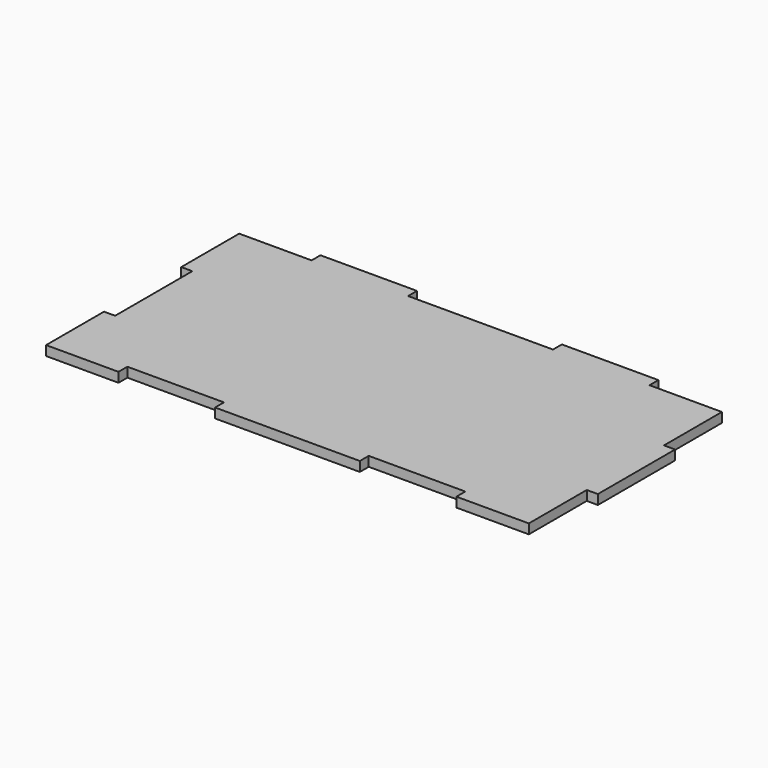
from build123d import *

# Parameters (mm, degrees)
F0_W     = 20
F0_H     = 2.3
F0_W_2   = 2.3
F0_H_2   = 20
F1_DEPTH = 2
F2_W     = 20
F2_H     = 2.3
F2_W_2   = 2.3
F2_H_2   = 20
F3_DEPTH = 5


with BuildPart() as f1:
    # F0 (on Top) → F1 (new body)
    with BuildSketch(Plane.XY):
        Polygon((-39.665294, 39.906408), (-54.665294, 39.906408), (-54.665294, -10.093592), (45.334706, -10.093592), (45.334706, 4.906408), (45.334706, 24.906408), (45.334706, 39.906408), (30.334706, 39.906408), (10.334706, 39.906408), (-19.665294, 39.906408), align=None)
        with Locations((-29.665294, 41.056408)):
            Rectangle(F0_W, F0_H)
        with Locations((20.334706, 41.056408)):
            Rectangle(F0_W, F0_H)
        with Locations((46.484706, 14.906408)):
            Rectangle(F0_W_2, F0_H_2)
    extrude(amount=F1_DEPTH)

    # F2 (on face) → F3 (cut)
    with BuildSketch(Plane.XY.offset(2)):
        with Locations((-29.665294, -8.943592)):
            Rectangle(F2_W, F2_H)
        with Locations((20.334706, -8.943592)):
            Rectangle(F2_W, F2_H)
        with Locations((-53.515294, 14.906408)):
            Rectangle(F2_W_2, F2_H_2)
    extrude(amount=-F3_DEPTH, mode=Mode.SUBTRACT)


solid = f1.part
